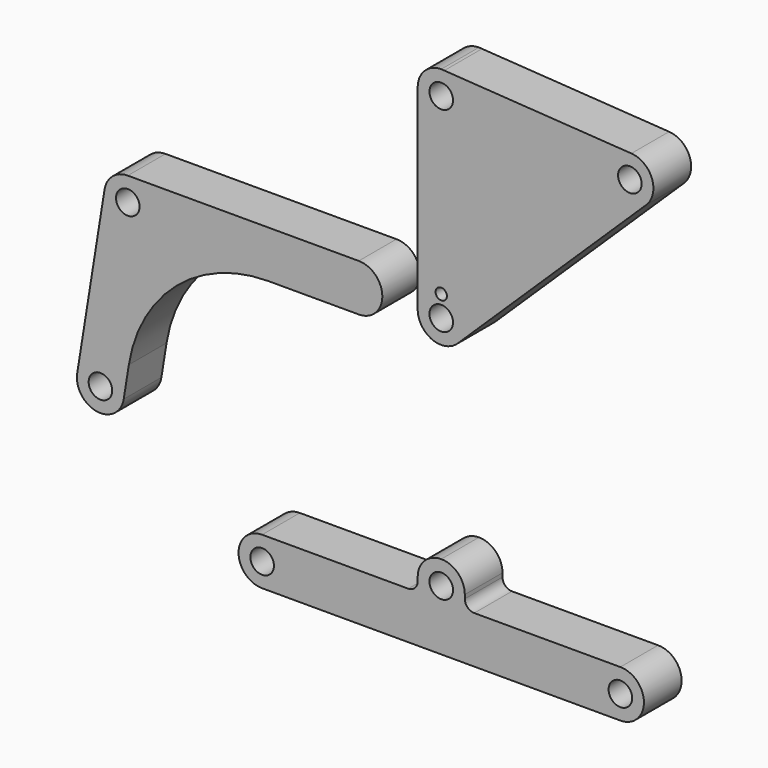
from build123d import *

# Parameters (mm, degrees)
F0_R     = 2.5
F0_R_2   = 1.203596
F1_DEPTH = 10
F2_R     = 2.5
F4_DEPTH = 10
F3_R     = 2.5
F5_DEPTH = 10


with BuildPart() as f1:
    # F0 (on Front) → F1 (new body)
    with BuildSketch(Plane.XZ):
        with BuildLine():
            Line((40.339092, 43.879605), (0.646863, 46.45798))
            Line((0.646863, 46.45798), (0, 46.5))
            ThreePointArc((0, 46.5), (-3.535534, 45.035534), (-5, 41.5))
            Line((-5, 41.5), (-5, 0))
            ThreePointArc((-5, 0), (-1.946293, -4.605643), (3.484778, -3.585572))
            Line((3.484778, -3.585572), (43.499757, 35.304549))
            ThreePointArc((43.499757, 35.304549), (44.70644, 40.619338), (40.339092, 43.879605))
        make_face()
        Circle(F0_R, mode=Mode.SUBTRACT)
        with Locations((0, 4.508609)):
            Circle(F0_R_2, mode=Mode.SUBTRACT)
        with Locations((0, 41.5)):
            Circle(F0_R, mode=Mode.SUBTRACT)
        with Locations((40.014979, 38.89012)):
            Circle(F0_R, mode=Mode.SUBTRACT)
    extrude(amount=F1_DEPTH)


with BuildPart() as f4:
    # F2 (on Front) → F4 (new body)
    with BuildSketch(Plane.XZ):
        with BuildLine():
            Line((-36.657991, -5), (-17.5, -5))
            ThreePointArc((-17.5, -5), (-12.5, 0), (-17.5, 5))
            Line((-17.5, 5), (-66.5, 5))
            ThreePointArc((-66.5, 5), (-69.744045, 3.804756), (-71.437121, 0.790469))
            Line((-71.437121, 0.790469), (-77.239161, -35.447996))
            ThreePointArc((-77.239161, -35.447996), (-73.09251, -41.175585), (-67.36492, -37.028933))
            Line((-67.36492, -37.028933), (-66.280715, -30.257187))
            ThreePointArc((-66.280715, -30.257187), (-56.122262, -12.171461), (-36.657991, -5))
        make_face()
        with Locations((-72.302041, -36.238465)):
            Circle(F2_R, mode=Mode.SUBTRACT)
        with Locations((-66.5, 0)):
            Circle(F2_R, mode=Mode.SUBTRACT)
    extrude(amount=F4_DEPTH)


with BuildPart() as f5:
    # F3 (on Front) → F5 (new body)
    with BuildSketch(Plane.XZ):
        with BuildLine():
            Line((-7, -52.8), (-38, -52.8))
            ThreePointArc((-38, -52.8), (-43, -57.8), (-38, -62.8))
            Line((-38, -62.8), (0, -62.8))
            Line((0, -62.8), (38, -62.8))
            ThreePointArc((38, -62.8), (43, -57.8), (38, -52.8))
            Line((38, -52.8), (7, -52.8))
            ThreePointArc((7, -52.8), (5.585786, -52.214214), (5, -50.8))
            Line((5, -50.8), (5, -50))
            ThreePointArc((5, -50), (3.535534, -46.464466), (0, -45))
            ThreePointArc((0, -45), (-3.535534, -46.464466), (-5, -50))
            Line((-5, -50), (-5, -50.8))
            ThreePointArc((-5, -50.8), (-5.585786, -52.214214), (-7, -52.8))
        make_face()
        with Locations((-38, -57.8)):
            Circle(F3_R, mode=Mode.SUBTRACT)
        with Locations((38, -57.8)):
            Circle(F3_R, mode=Mode.SUBTRACT)
        with BuildLine():
            ThreePointArc((0, -52.5), (-2.5, -50), (0, -47.5))
            ThreePointArc((0, -47.5), (2.5, -50), (0, -52.5))
        make_face(mode=Mode.SUBTRACT)
    extrude(amount=F5_DEPTH)


solid = Compound([f1.part, f4.part, f5.part])
